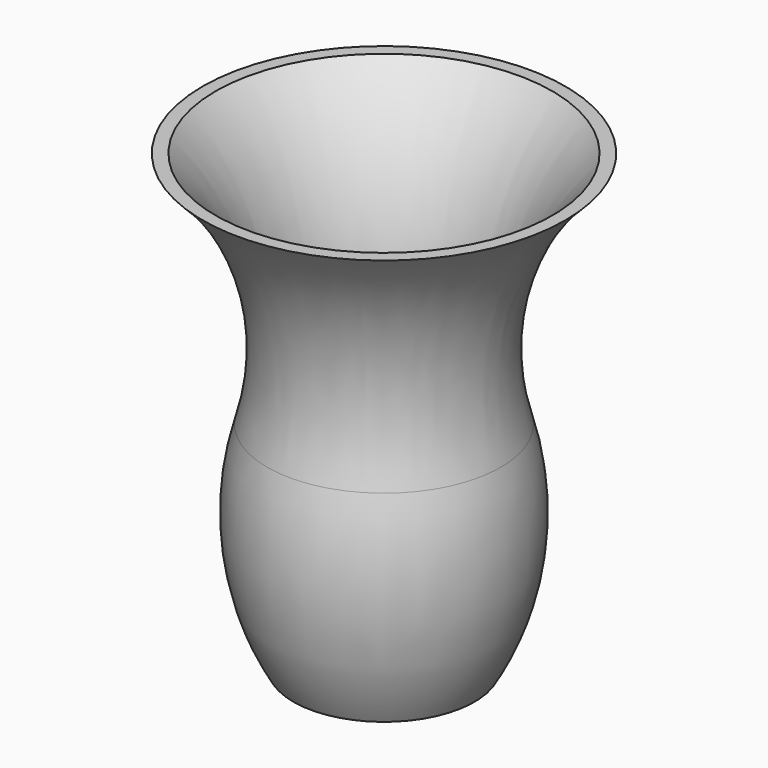
from build123d import *

# Parameters (mm, degrees)
F2_T = -2.54


with BuildPart() as f1:
    # F0 (on Front) → F1 (revolve)
    with BuildSketch(Plane.XZ):
        with BuildLine():
            Line((-25.4, -60.207411), (0, -60.207411))
            Line((0, -60.207411), (0, 66.792589))
            Line((0, 66.792589), (-50.8, 66.792589))
            ThreePointArc((-50.8, 66.792589), (-32.296242, 35.957983), (-32.726925, 0))
            ThreePointArc((-32.726925, 0), (-35.311814, -30.864097), (-25.4, -60.207411))
        make_face()
    revolve(axis=Axis((0, 0, 3.292589), (0, 0, -1)))

    # F2
    f2_openings = [f1.faces().sort_by_distance(p)[0] for p in [
        (0, 0, 66.792589),
    ]]
    offset(amount=F2_T, openings=f2_openings)


solid = f1.part
